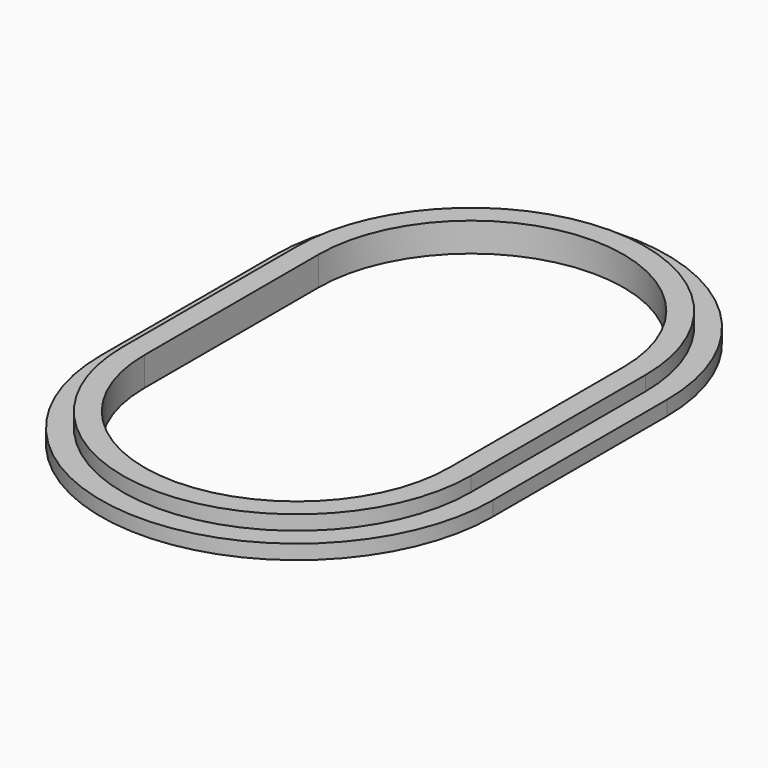
from build123d import *

# Parameters (mm, degrees)
PAD_DEPTH    = 2
PAD001_DEPTH = 2


with BuildPart() as part:
    # Sketch → Pad (new body)
    with BuildSketch(Plane.XY):
        with BuildLine():
            ThreePointArc((24, 15), (0, 39), (-24, 15))
            Line((-24, 15), (-24, -15))
            ThreePointArc((-24, -15), (0, -39), (24, -15))
            Line((24, -15), (24, 15))
        make_face()
        with BuildLine():
            ThreePointArc((21, 15), (0, 36), (-21, 15))
            Line((-21, 15), (-21, -15))
            ThreePointArc((-21, -15), (0, -36), (21, -15))
            Line((21, -15), (21, 15))
        make_face(mode=Mode.SUBTRACT)
    extrude(amount=PAD_DEPTH)

    # Sketch001 (on Face9 of Pad) → Pad001 (join)
    with BuildSketch(Plane(origin=(0, 0, 0), x_dir=(1, 0, 0), z_dir=(0, 0, -1))):
        with BuildLine():
            ThreePointArc((27, 15), (0, 42), (-27, 15))
            Line((-27, 15), (-27, -15))
            ThreePointArc((-27, -15), (0, -42), (27, -15))
            Line((27, -15), (27, 15))
        make_face()
        with BuildLine():
            ThreePointArc((21, 15), (0, 36), (-21, 15))
            Line((-21, 15), (-21, -15))
            ThreePointArc((-21, -15), (0, -36), (21, -15))
            Line((21, -15), (21, 15))
        make_face(mode=Mode.SUBTRACT)
    extrude(amount=PAD001_DEPTH)


solid = part.part
